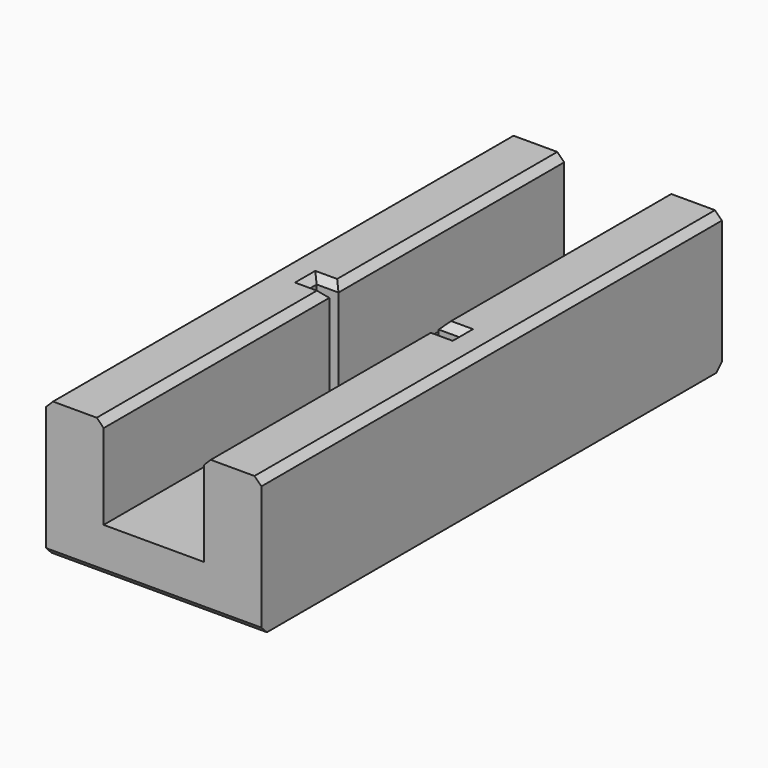
from build123d import *

# Parameters (mm, degrees)
F1_DEPTH = 25
F2_W     = 1.9
F2_H     = 1
F2_W_2   = 10.6
F3_DEPTH = 9
F4_SIZE  = 0.6


with BuildPart() as f1:
    # F0 (on Front) → F1 (new body, symmetric)
    with BuildSketch(Plane.XZ):
        Polygon((-9.35, -6), (9.35, -6), (9.35, 6), (4.35, 6), (4.35, -2), (-4.35, -2), (-4.35, 6), (-9.35, 6), align=None)
    extrude(amount=F1_DEPTH, both=True)

    # F2 (on face) → F3 (cut)
    with BuildSketch(Plane.XY.offset(6)):
        with Locations((5.3, 0)):
            Rectangle(F2_W, F2_H)
        with Locations((-0.95, 0)):
            Rectangle(F2_W_2, F2_H)
    extrude(amount=-F3_DEPTH, mode=Mode.SUBTRACT)

    # F4 (call 1 of 10: OpenCascade refuses the feature's edges together)
    f4_edges = [f1.edges().sort_by_distance(p)[0] for p in [
        (5.3, 0.5, 6),
        (6.25, 0, 6),
        (5.3, -0.5, 6),
        (4.35, 12.75, 6),
        (4.35, -12.75, 6),
    ]]
    chamfer(f4_edges, length=F4_SIZE)

    # F4#2 (call 2 of 10)
    f4_2_edges = [f1.edges().sort_by_distance(p)[0] for p in [
        (-5.3, 0.5, 6),
        (-6.25, 0, 6),
        (-5.3, -0.5, 6),
        (-4.35, -12.75, 6),
        (-4.35, 12.75, 6),
    ]]
    chamfer(f4_2_edges, length=F4_SIZE)

    # F4#3 (call 3 of 10)
    f4_3_edges = [f1.edges().sort_by_distance(p)[0] for p in [
        (9.35, 0, 6),
    ]]
    chamfer(f4_3_edges, length=F4_SIZE)

    # F4#4 (call 4 of 10)
    f4_4_edges = [f1.edges().sort_by_distance(p)[0] for p in [
        (-9.35, 0, 6),
    ]]
    chamfer(f4_4_edges, length=F4_SIZE)

    # F4#5 (call 5 of 10)
    f4_5_edges = [f1.edges().sort_by_distance(p)[0] for p in [
        (0, 25, -6),
    ]]
    chamfer(f4_5_edges, length=F4_SIZE)

    # F4#6 (call 6 of 10)
    f4_6_edges = [f1.edges().sort_by_distance(p)[0] for p in [
        (0, -25, -6),
    ]]
    chamfer(f4_6_edges, length=F4_SIZE)

    # F4#7 (call 7 of 10)
    f4_7_edges = [f1.edges().sort_by_distance(p)[0] for p in [
        (-6.25, 0, -3),
    ]]
    chamfer(f4_7_edges, length=F4_SIZE)

    # F4#8 (call 8 of 10)
    f4_8_edges = [f1.edges().sort_by_distance(p)[0] for p in [
        (6.25, 0, -3),
    ]]
    chamfer(f4_8_edges, length=F4_SIZE)

    # F4#9 (call 9 of 10)
    f4_9_edges = [f1.edges().sort_by_distance(p)[0] for p in [
        (0, 0.5, -2),
    ]]
    chamfer(f4_9_edges, length=F4_SIZE)

    # F4#10 (call 10 of 10)
    f4_10_edges = [f1.edges().sort_by_distance(p)[0] for p in [
        (0, -0.5, -2),
    ]]
    chamfer(f4_10_edges, length=F4_SIZE)


solid = f1.part
